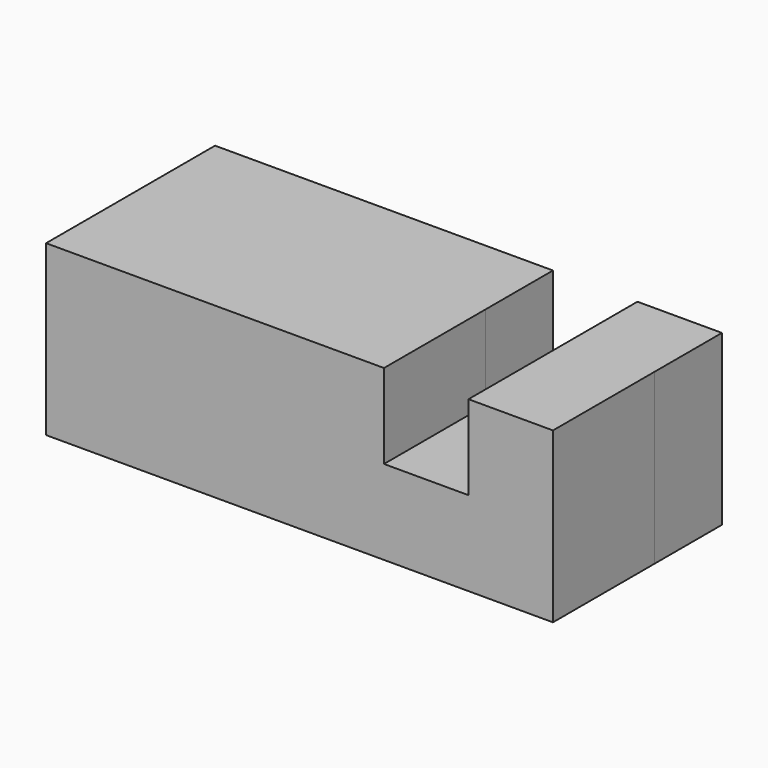
from build123d import *

# Parameters (mm, degrees)
F1_DEPTH = 38.1
F2_DEPTH = 25.4


with BuildPart() as f1:
    # F0 (on Front) → F1 (new body)
    with BuildSketch(Plane.XZ):
        Polygon((-75.343929, 23.60485), (-75.343929, -27.19515), (77.056071, -27.19515), (77.056071, 23.60485), (51.656071, 23.60485), (51.656071, -1.79515), (26.256071, -1.79515), (26.256071, 23.60485), align=None)
    extrude(amount=F1_DEPTH)

    # F1_face (on face) → F2 (join)
    with BuildSketch(Plane(origin=(-2.607566, 0, -2.949695), x_dir=(1, 0, 0), z_dir=(0, 1, 0))):
        Polygon((-72.736364, 24.245455), (-72.736364, -26.554545), (28.863636, -26.554545), (28.863636, -1.154545), (54.263636, -1.154545), (54.263636, -26.554545), (79.663636, -26.554545), (79.663636, 24.245455), align=None)
    extrude(amount=F2_DEPTH)


solid = f1.part
